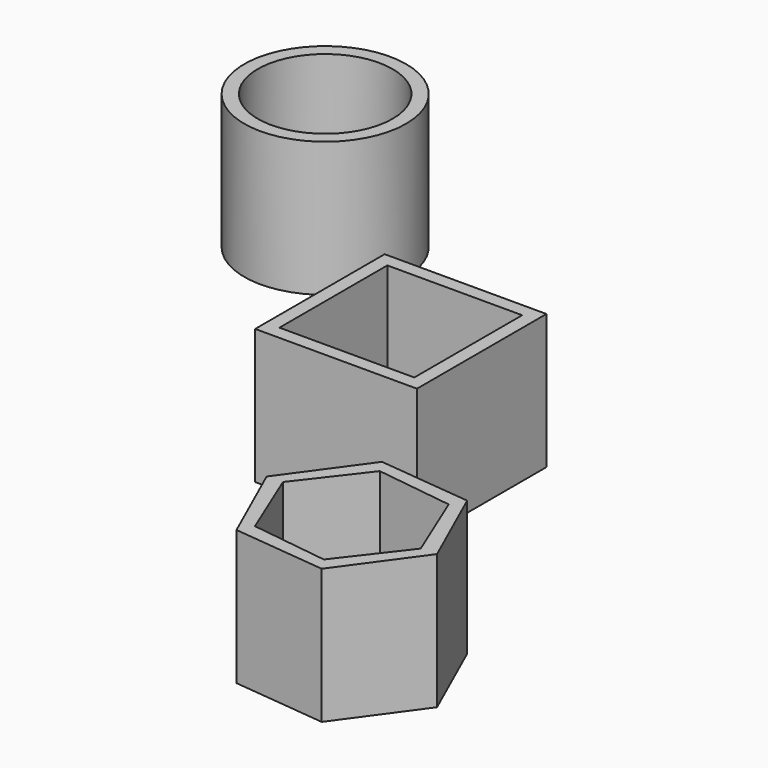
from build123d import *

# Parameters (mm, degrees)
F0_W     = 30
F0_H     = 30
F0_W_2   = 25
F0_H_2   = 25
F1_DEPTH = 5
F2_DEPTH = 25
F3_R     = 15
F3_R_2   = 12.5
F4_DEPTH = 5
F5_DEPTH = 25
F7_DEPTH = 5
F8_DEPTH = 25


with BuildPart() as f1:
    # F0 (on Top) → F1 (new body)
    with BuildSketch(Plane.XY):
        Rectangle(F0_W, F0_H)
        Rectangle(F0_W_2, F0_H_2, mode=Mode.SUBTRACT)
        Rectangle(F0_W_2, F0_H_2)
    extrude(amount=F1_DEPTH)

    # F0 (on Top) → F2 (join)
    with BuildSketch(Plane.XY):
        Rectangle(F0_W, F0_H)
        Rectangle(F0_W_2, F0_H_2, mode=Mode.SUBTRACT)
    extrude(amount=F2_DEPTH)


with BuildPart() as f4:
    # F3 (on Top) → F4 (new body)
    with BuildSketch(Plane.XY):
        with Locations((-53.1137622893, 48.8646626472)):
            Circle(F3_R)
        with Locations((-53.1137622893, 48.8646626472)):
            Circle(F3_R_2, mode=Mode.SUBTRACT)
        with Locations((-53.1137622893, 48.8646626472)):
            Circle(F3_R_2)
    extrude(amount=F4_DEPTH)

    # F3 (on Top) → F5 (join)
    with BuildSketch(Plane.XY):
        with Locations((-53.1137622893, 48.8646626472)):
            Circle(F3_R)
        with Locations((-53.1137622893, 48.8646626472)):
            Circle(F3_R_2, mode=Mode.SUBTRACT)
    extrude(amount=F5_DEPTH)


with BuildPart() as f7:
    # F6 (on Top) → F7 (new body)
    with BuildSketch(Plane.XY):
        Polygon((15.2048393161, -50.1008412448), (22.2678444807, -65.9158328049), (39.4955315147, -67.7065866852), (49.660213384, -53.6823490056), (42.5972082193, -37.8673574455), (25.3695211854, -36.0766035652), align=None)
        Polygon((37.9207151216, -65.2412437101), (23.6154859297, -63.3193303146), (18.1272971581, -49.9696817297), (26.9443375785, -38.5419465403), (41.2495667704, -40.4638599358), (46.7377555419, -53.8135085207), align=None, mode=Mode.SUBTRACT)
        Polygon((18.1272971581, -49.9696817297), (23.6154859297, -63.3193303146), (37.9207151216, -65.2412437101), (46.7377555419, -53.8135085207), (41.2495667704, -40.4638599358), (26.9443375785, -38.5419465403), align=None)
    extrude(amount=F7_DEPTH)

    # F6 (on Top) → F8 (join)
    with BuildSketch(Plane.XY):
        Polygon((15.2048393161, -50.1008412448), (22.2678444807, -65.9158328049), (39.4955315147, -67.7065866852), (49.660213384, -53.6823490056), (42.5972082193, -37.8673574455), (25.3695211854, -36.0766035652), align=None)
        Polygon((37.9207151216, -65.2412437101), (23.6154859297, -63.3193303146), (18.1272971581, -49.9696817297), (26.9443375785, -38.5419465403), (41.2495667704, -40.4638599358), (46.7377555419, -53.8135085207), align=None, mode=Mode.SUBTRACT)
    extrude(amount=F8_DEPTH)


solid = Compound([f1.part, f4.part, f7.part])
